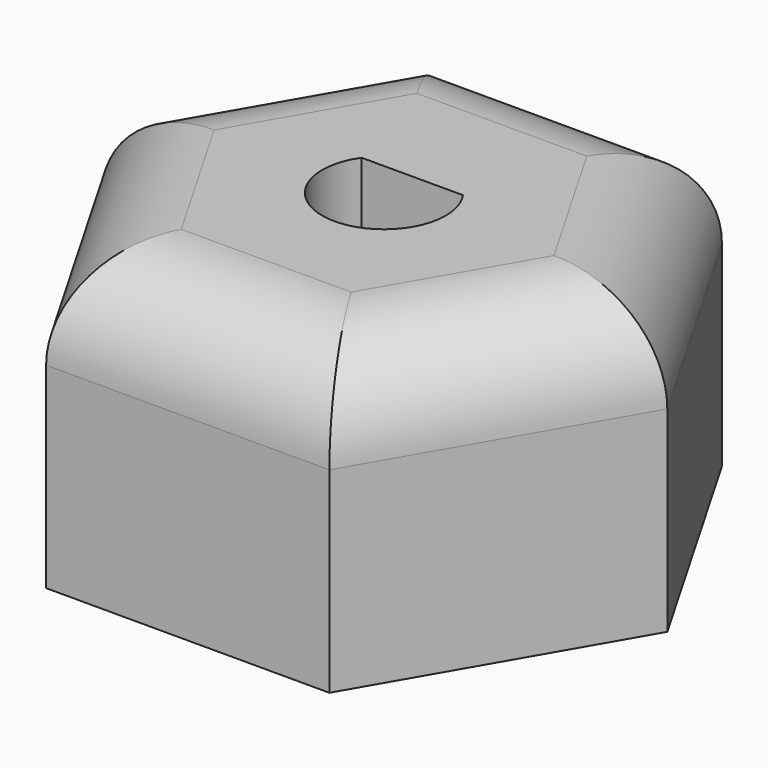
from build123d import *

# Parameters (mm, degrees)
F1_DEPTH = 15
F2_R     = 5


with BuildPart() as f1:
    # F0 (on Top) → F1 (new body)
    with BuildSketch(Plane.XY):
        Polygon((14.433757, 0), (7.216878, 12.5), (-7.216878, 12.5), (-14.433757, 0), (-7.216878, -12.5), (7.216878, -12.5), align=None)
        with BuildLine():
            ThreePointArc((2.585053, 1.8), (0, -3.15), (-2.585053, 1.8))
            Line((-2.585053, 1.8), (2.585053, 1.8))
        make_face(mode=Mode.SUBTRACT)
    extrude(amount=F1_DEPTH)

    # F2
    f2_edges = [f1.edges().sort_by_distance(p)[0] for p in [
        (0, -12.5, 15),
        (10.825318, -6.25, 15),
        (10.825318, 6.25, 15),
        (0, 12.5, 15),
        (-10.825318, 6.25, 15),
        (-10.825318, -6.25, 15),
    ]]
    fillet(f2_edges, radius=F2_R)


solid = f1.part
